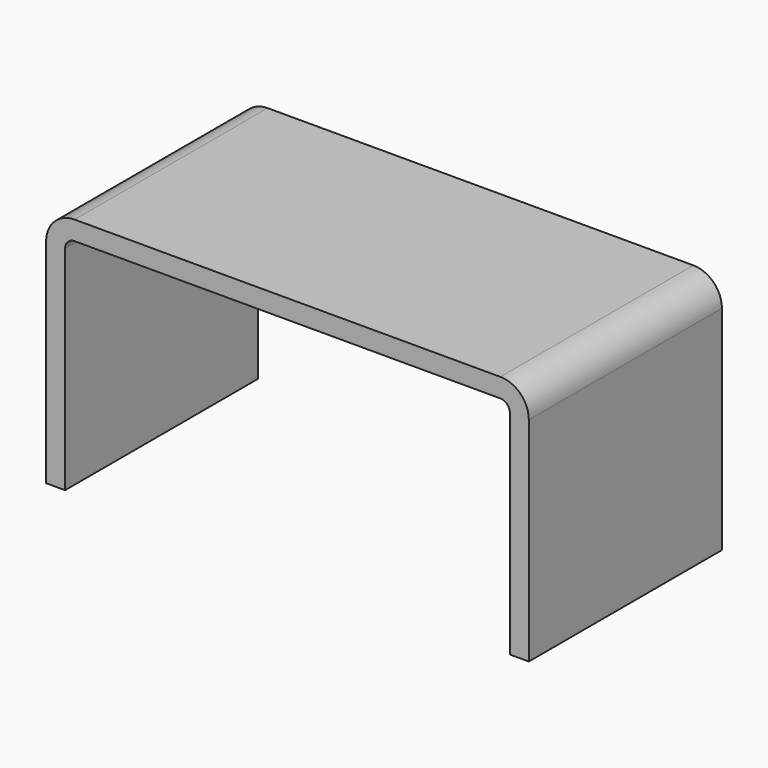
from build123d import *

# Parameters (mm, degrees)
F1_DEPTH = 25.4
F2_R     = 3
F3_R     = 1


with BuildPart() as f1:
    # F0 (on Front) → F1 (new body)
    with BuildSketch(Plane.XZ):
        Polygon((-25.4, 25.4), (-25.4, 0), (-23.4, 0), (-23.4, 23.4), (0, 23.4), (23.4, 23.4), (23.4, 0), (25.4, 0), (25.4, 25.4), (0, 25.4), align=None)
    extrude(amount=F1_DEPTH)

    # F2
    f2_edges = [f1.edges().sort_by_distance(p)[0] for p in [
        (25.4, -12.7, 25.4),
        (-25.4, -12.7, 25.4),
    ]]
    fillet(f2_edges, radius=F2_R)

    # F3
    f3_edges = [f1.edges().sort_by_distance(p)[0] for p in [
        (-23.4, -12.7, 23.4),
        (23.4, -12.7, 23.4),
    ]]
    fillet(f3_edges, radius=F3_R)


solid = f1.part
